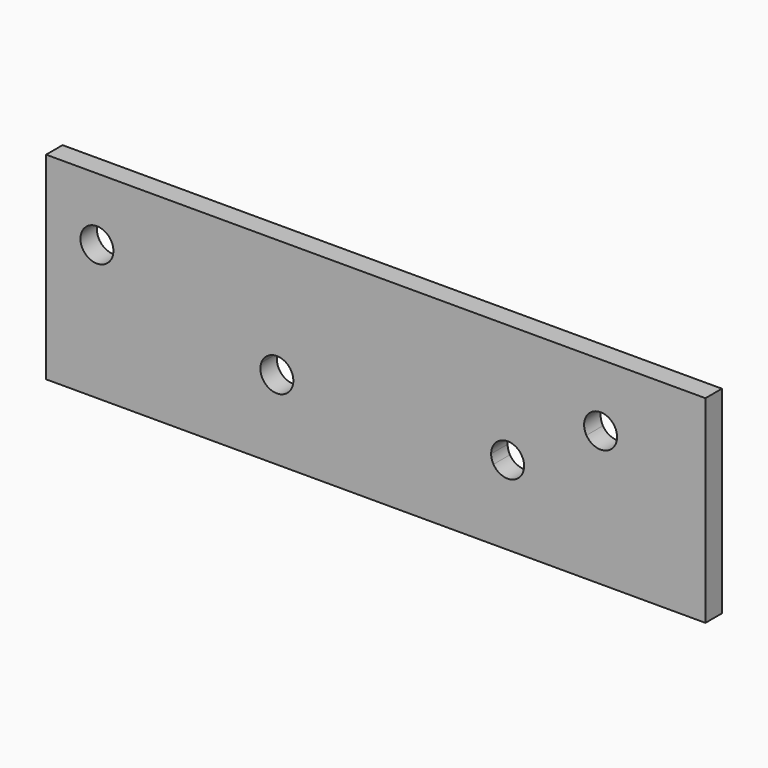
from build123d import *

# Parameters (mm, degrees)
F1_DEPTH = 3.96875


with BuildPart() as f1:
    # F0 (on Front) → F1 (new body)
    with BuildSketch(Plane.XZ):
        with BuildLine():
            Line((46.0279571805, 8.5667743083), (63.5, 19.05))
            Line((63.5, 19.05), (45.9832364526, 19.05))
            Line((45.9832364526, 19.05), (27.5244896752, -1.4505151791))
            ThreePointArc((27.5244896752, -1.4505151791), (27.8505466804, -1.7912266182), (28.1225400391, -2.1764759765))
            Line((28.1225400391, -2.1764759765), (40.5828771022, 5.2997262613))
            ThreePointArc((40.5828771022, 5.2997262613), (41.6718931179, 9.6557903239), (46.0279571805, 8.5667743083))
        make_face()
        with BuildLine():
            Line((27.5244896752, -1.4505151791), (45.9832364526, 19.05))
            Line((45.9832364526, 19.05), (-63.5, 19.05))
            Line((-63.5, 19.05), (-63.5, -19.05))
            Line((-63.5, -19.05), (0, -19.05))
            Line((0, -19.05), (0, -9.525))
            Line((0, -9.525), (-15.9821089289, -4.6277220653))
            ThreePointArc((-15.9821089289, -4.6277220653), (-19.9802006219, -6.8456797926), (-22.0493462104, -2.7685839881))
            ThreePointArc((-22.0493462104, -2.7685839881), (-18.5219371336, -0.6792214053), (-15.875, -3.81))
            Line((-15.875, -3.81), (0, -3.81))
            Line((0, -3.81), (22.225, -3.81))
            ThreePointArc((22.225, -3.81), (24.1086111582, -0.909493172), (27.5244896752, -1.4505151791))
        make_face()
        with BuildLine():
            ThreePointArc((-50.535970122, 6.9332502848), (-50.5709933433, 6.4629622568), (-50.6752903294, 6.0030496629))
            ThreePointArc((-50.6752903294, 6.0030496629), (-56.8509469007, 7.4035383128), (-50.535970122, 6.9332502848))
        make_face(mode=Mode.SUBTRACT)
        with BuildLine():
            Line((27.5244896752, -1.4505151791), (45.9832364526, 19.05))
            Line((45.9832364526, 19.05), (-63.5, 19.05))
            Line((-63.5, 19.05), (-63.5, -19.05))
            Line((-63.5, -19.05), (0, -19.05))
            Line((0, -19.05), (0, -9.525))
            Line((0, -9.525), (-15.9821089289, -4.6277220653))
            ThreePointArc((-15.9821089289, -4.6277220653), (-19.9802006219, -6.8456797926), (-22.0493462104, -2.7685839881))
            ThreePointArc((-22.0493462104, -2.7685839881), (-18.5219371336, -0.6792214053), (-15.875, -3.81))
            Line((-15.875, -3.81), (0, -3.81))
            Line((0, -3.81), (22.225, -3.81))
            ThreePointArc((22.225, -3.81), (24.1086111582, -0.909493172), (27.5244896752, -1.4505151791))
        make_face()
        with BuildLine():
            ThreePointArc((-50.535970122, 6.9332502848), (-50.5709933433, 6.4629622568), (-50.6752903294, 6.0030496629))
            ThreePointArc((-50.6752903294, 6.0030496629), (-56.8509469007, 7.4035383128), (-50.535970122, 6.9332502848))
        make_face(mode=Mode.SUBTRACT)
        with BuildLine():
            Line((63.5, -19.05), (63.5, 19.05))
            Line((63.5, 19.05), (46.0279571805, 8.5667743083))
            ThreePointArc((46.0279571805, 8.5667743083), (46.3652120384, 7.7807644073), (46.4804171413, 6.9332502848))
            ThreePointArc((46.4804171413, 6.9332502848), (44.1529312639, 3.8734553877), (40.5828771022, 5.2997262613))
            Line((40.5828771022, 5.2997262613), (28.1225400391, -2.1764759765))
            ThreePointArc((28.1225400391, -2.1764759765), (28.4597948971, -2.9624858775), (28.575, -3.81))
            ThreePointArc((28.575, -3.81), (26.2475141225, -6.8697948971), (22.6774599609, -5.4435240235))
            Line((22.6774599609, -5.4435240235), (10.5083445014, -12.7449932991))
            Line((10.5083445014, -12.7449932991), (0, -19.05))
            Line((0, -19.05), (63.5, -19.05))
        make_face()
        Polygon((0, -9.525), (0, -19.05), (10.5083445014, -12.7449932991), align=None)
        with BuildLine():
            ThreePointArc((22.6774599609, -5.4435240235), (22.3402051029, -4.6575141225), (22.225, -3.81))
            Line((22.225, -3.81), (0, -3.81))
            Line((0, -3.81), (-15.875, -3.81))
            ThreePointArc((-15.875, -3.81), (-15.9018911113, -4.222353519), (-15.9821089289, -4.6277220653))
            Line((-15.9821089289, -4.6277220653), (0, -9.525))
            Line((0, -9.525), (10.5083445014, -12.7449932991))
            Line((10.5083445014, -12.7449932991), (22.6774599609, -5.4435240235))
        make_face()
    extrude(amount=F1_DEPTH)


solid = f1.part
